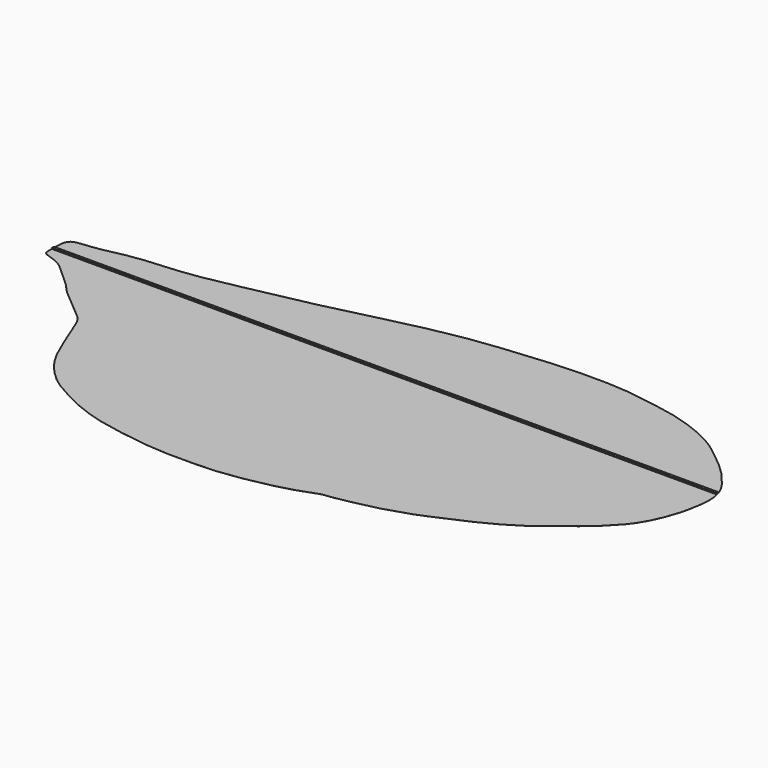
from build123d import *

# Parameters (mm, degrees)
SKETCH_W     = 200
SKETCH_H     = 0.8
PAD_DEPTH    = 0.25
PAD001_DEPTH = 0.005


with BuildPart() as part:
    # Sketch → Pad (new body, symmetric)
    with BuildSketch(Plane.XY):
        with Locations((100, 0)):
            Rectangle(SKETCH_W, SKETCH_H)
    extrude(amount=PAD_DEPTH, both=True)

    # Sketch001 → Pad001 (join, symmetric)
    with BuildSketch(Plane.XY):
        with BuildLine():
            add(Edge.make_bspline(
                [(0.14271, 3.160527), (0.285419, 4.029207), (0.856258, 5.21208), (2.53308, 5.91401), (7.17359, 6.16748), (13.3154, 7.45434), (18.9698, 8.70221), (29.1753, 9.23325), (37.4424, 10.3056), (53.4608, 13.6842), (69.0288, 16.7869), (89.8063, 22.2126), (104.597, 25.0856), (114.132, 26.197), (123.14, 27.0939), (134.524, 27.9921), (145.092, 27.9337), (151.156, 27.5827), (158.012, 26.5087), (163.315, 25.6508), (168.385, 24.5589), (174.078, 22.7651), (178.64, 20.7958), (183.233, 18.3108), (187.309, 15.0936), (191.715, 11.5645), (195.205, 8.15235), (199.013, 3.48041), (200.125, 1.00417), (200.612, -0.65315), (200.963, -2.64194), (200.925, -5.73824), (200.457, -8.46795), (199.735, -12.465), (198.76, -15.2727), (197.18, -19.4806), (195.172, -23.0682), (193.124, -25.8759), (190.902, -28.0402), (188.655, -30.6274), (185.36, -33.2011), (182.669, -35.3264), (179.725, -37.6076), (176.758, -40.0541), (173.288, -42.3159), (169.7, -44.4607), (165.871, -46.4761), (161.679, -48.3674), (157.565, -50.1222), (152.612, -52.4035), (148.255, -53.8735), (143.439, -55.4334), (138.857, -56.4863), (135.094, -57.2857), (129.523, -58.3451), (128.197, -58.2866), (126.521, -58.8715), (124.278, -59.7685), (119.891, -61.2308), (114.373, -62.5956), (108.943, -63.674), (103.659, -64.4539), (100.013, -64.8244), (95.548, -64.9804), (91.7849, -65.0389), (86.6675, -65.0405), (81.5396, -64.7285), (77.211, -64.2606), (72.3366, -63.5196), (64.8345, -62.1674), (60.9155, -61.0365), (57.5813, -59.9251), (53.3503, -58.1508), (49.3727, -56.1231), (45.5039, -53.9494), (42.2672, -51.6876), (39.167, -48.5874), (36.3578, -45.1249), (34.096, -41.0889), (31.1127, -33.8238), (29.7868, -30.3142), (27.5219, -24.5885), (25.4356, -22.9312), (22.277, -20.143), (17.2989, -16.3686), (14.9981, -13.6389), (12.8729, -11.4551), (9.02644, -8.20825), (6.45272, -5.63452), (3.58652, -4.21118), (0.42786, -3.372765), (0.008958, -2.464734), (0, -2.006063), (0, 0), (0, 2.291847), (0.14271, 3.160527)],
                knots=[0, 0, 0, 0, 0.010753, 0.021505, 0.032258, 0.043011, 0.053763, 0.064516, 0.075269, 0.086022, 0.096774, 0.107527, 0.11828, 0.129032, 0.139785, 0.150538, 0.16129, 0.172043, 0.182796, 0.193548, 0.204301, 0.215054, 0.225806, 0.236559, 0.247312, 0.258065, 0.268817, 0.27957, 0.290323, 0.301075, 0.311828, 0.322581, 0.333333, 0.344086, 0.354839, 0.365591, 0.376344, 0.387097, 0.397849, 0.408602, 0.419355, 0.430108, 0.44086, 0.451613, 0.462366, 0.473118, 0.483871, 0.494624, 0.505376, 0.516129, 0.526882, 0.537634, 0.548387, 0.55914, 0.569892, 0.580645, 0.591398, 0.602151, 0.612903, 0.623656, 0.634409, 0.645161, 0.655914, 0.666667, 0.677419, 0.688172, 0.698925, 0.709677, 0.72043, 0.731183, 0.741935, 0.752688, 0.763441, 0.774194, 0.784946, 0.795699, 0.806452, 0.817204, 0.827957, 0.83871, 0.849462, 0.860215, 0.870968, 0.88172, 0.892473, 0.903226, 0.913978, 0.924731, 0.935484, 0.946237, 0.956989, 0.967742, 0.978495, 0.989247, 1, 1, 1, 1], degree=3))
        make_face()
    extrude(amount=PAD001_DEPTH, both=True)


solid = part.part
